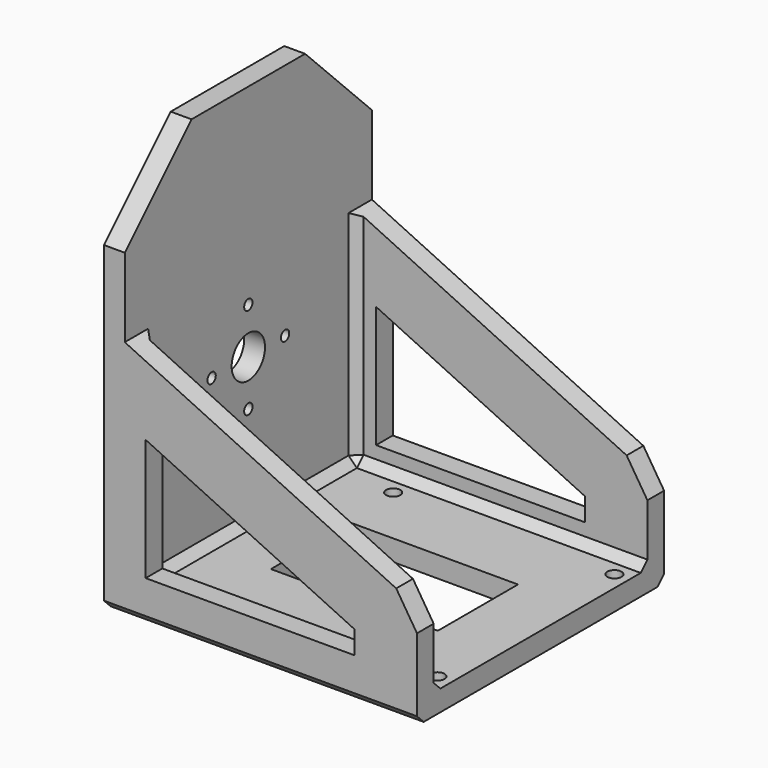
from build123d import *

# Parameters (mm, degrees)
SKETCH004_W      = 75
SKETCH004_H      = 74
SKETCH004_W_2    = 40
SKETCH004_H_2    = 24
PAD_DEPTH        = 5
SKETCH006_W      = 74
SKETCH006_H      = 97
PAD003_DEPTH     = 5
PAD004_DEPTH     = 5
HOLE_D           = 3.4
HOLE_CSINK_D     = 6.1
HOLE_CSINK_ANGLE = 90
SKETCH002_R      = 5
SKETCH002_R_2    = 1.25
POCKET_DEPTH     = 5.001
CHAMFER_SIZE     = 2
CHAMFER001_SIZE  = 5.5
CHAMFER002_SIZE  = 20


with BuildPart() as part:
    # Sketch004 → Pad (new body)
    with BuildSketch(Plane.XY):
        with Locations((32.5, 0)):
            Rectangle(SKETCH004_W, SKETCH004_H)
        with Locations((35, 0)):
            Rectangle(SKETCH004_W_2, SKETCH004_H_2, mode=Mode.SUBTRACT)
    extrude(amount=-PAD_DEPTH)

    # Sketch006 → Pad003 (join)
    with BuildSketch(Plane.YZ):
        with Locations((0, 43.5)):
            Rectangle(SKETCH006_W, SKETCH006_H)
    extrude(amount=-PAD003_DEPTH)

    # Sketch001 → Pad004 (join)
    with BuildSketch(Plane.XZ.offset(37)):
        Polygon((-5, 55.5), (70, 20), (70, -5), (-5, -5), align=None)
        Polygon((5, 34.171185), (55, 10.504519), (55, 5), (5, 5), align=None, mode=Mode.SUBTRACT)
    pad004 = extrude(amount=-PAD004_DEPTH)

    # Mirrored: Pad004 across XZ
    add(pad004.mirror(Plane.XZ))

    # Hole (through all)
    with Locations(Plane(origin=(0, 0, -5), x_dir=(1, 0, 0), z_dir=(0, 0, -1))):
        with Locations((66.5, -26.5), (13.5, -26.5), (13.5, 26.5), (66.5, 26.5)):
            CounterSinkHole(HOLE_D / 2, HOLE_CSINK_D / 2, counter_sink_angle=HOLE_CSINK_ANGLE)

    # Sketch002 → Pocket (cut, through all)
    with BuildSketch(Plane.YZ):
        with Locations((0, 35)):
            Circle(SKETCH002_R)
        with Locations((0, 46)):
            Circle(SKETCH002_R_2)
        with Locations((11, 35)):
            Circle(SKETCH002_R_2)
        with Locations((0, 24)):
            Circle(SKETCH002_R_2)
        with Locations((-11, 35)):
            Circle(SKETCH002_R_2)
    extrude(amount=-POCKET_DEPTH, mode=Mode.SUBTRACT)

    # Chamfer
    chamfer_edges = [part.edges().sort_by_distance(p)[0] for p in [
        (0, 0, 0),
        (35, 32, 0),
        (35, -32, 0),
        (0, -32, 26.566667),
        (0, 32, 26.566667),
        (32.5, -37, -5),
        (32.5, 37, -5),
    ]]
    chamfer(chamfer_edges, length=CHAMFER_SIZE)

    # Chamfer001
    chamfer001_edges = [part.edges().sort_by_distance(p)[0] for p in [
        (70, -34.5, 20),
        (70, 34.5, 20),
    ]]
    chamfer(chamfer001_edges, length=CHAMFER001_SIZE)

    # Chamfer002
    chamfer002_edges = [part.edges().sort_by_distance(p)[0] for p in [
        (-2.5, -37, 92),
        (-2.5, 37, 92),
    ]]
    chamfer(chamfer002_edges, length=CHAMFER002_SIZE)


solid = part.part
